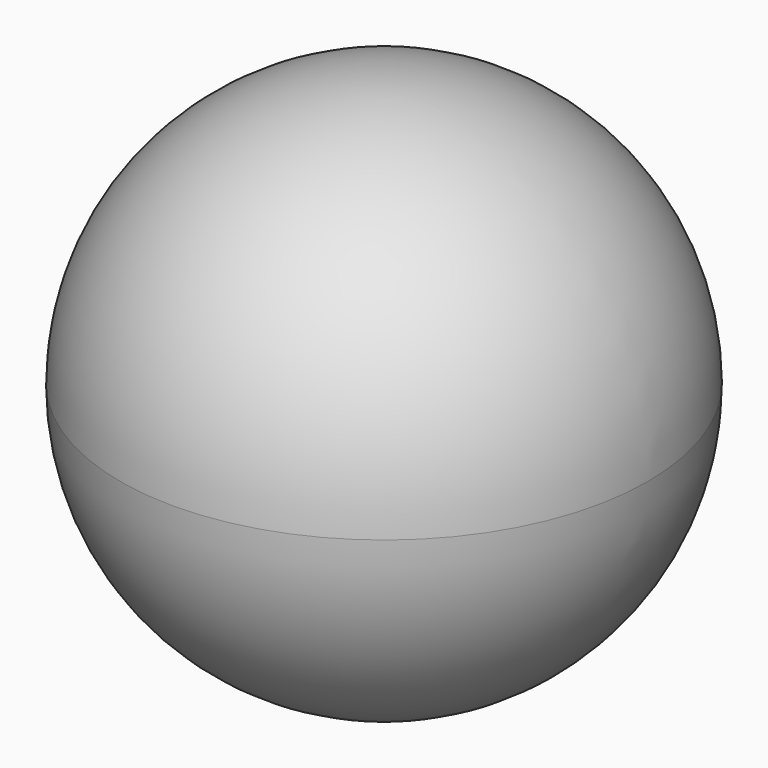
from build123d import *


with BuildPart() as f1:
    # F0 (on Front) → F1 (revolve)
    with BuildSketch(Plane.XZ):
        with BuildLine():
            ThreePointArc((0, -50), (35.3553390593, -35.3553390593), (50, 0))
            ThreePointArc((50, 0), (35.3553390593, 35.3553390593), (0, 50))
            Line((0, 50), (0, 11.8595524673))
            ThreePointArc((0, 11.8595524673), (8.3859699715, 8.3859699715), (11.8595524673, 0))
            ThreePointArc((11.8595524673, 0), (8.3859699715, -8.3859699715), (0, -11.8595524673))
            Line((0, -11.8595524673), (0, -50))
        make_face()
    revolve(axis=Axis((0, 0, 0), (0, 0, -1)))


solid = f1.part
